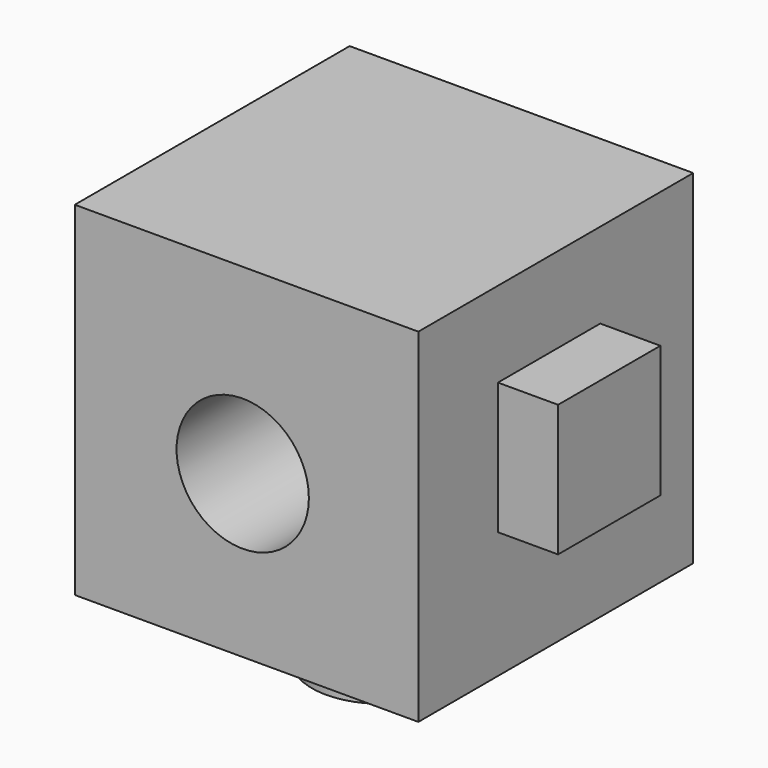
from build123d import *

# Parameters (mm, degrees)
F0_W     = 50.8
F0_H     = 50.8
F0_R     = 9.781651
F1_DEPTH = 50.8
F2_W     = 18.904511
F2_H     = 19.477375
F3_DEPTH = 8.636
F4_DEPTH = 8.89
F5_R     = 10.389056
F6_DEPTH = 11.176


with BuildPart() as f1:
    # F0 (on Front) → F1 (new body)
    with BuildSketch(Plane.XZ):
        with Locations((-25.4, 25.4)):
            Rectangle(F0_W, F0_H)
        with Locations((-25.969833, 23.869332)):
            Circle(F0_R, mode=Mode.SUBTRACT)
    extrude(amount=F1_DEPTH)

    # F2 (on face) → F3 (join)
    with BuildSketch(Plane.YZ):
        with Locations((-26.638174, 28.452244)):
            Rectangle(F2_W, F2_H)
    extrude(amount=F3_DEPTH)

    # F2 (on face) → F4 (join)
    with BuildSketch(Plane.YZ):
        with Locations((-26.638174, 28.452244)):
            Rectangle(F2_W, F2_H)
    extrude(amount=F4_DEPTH)

    # F5 (on face) → F6 (join)
    with BuildSketch(Plane(origin=(0, 0, 0), x_dir=(1, 0, 0), z_dir=(0, 0, -1))):
        with Locations((-25.969833, 25.01506)):
            Circle(F5_R)
    extrude(amount=F6_DEPTH)


solid = f1.part
